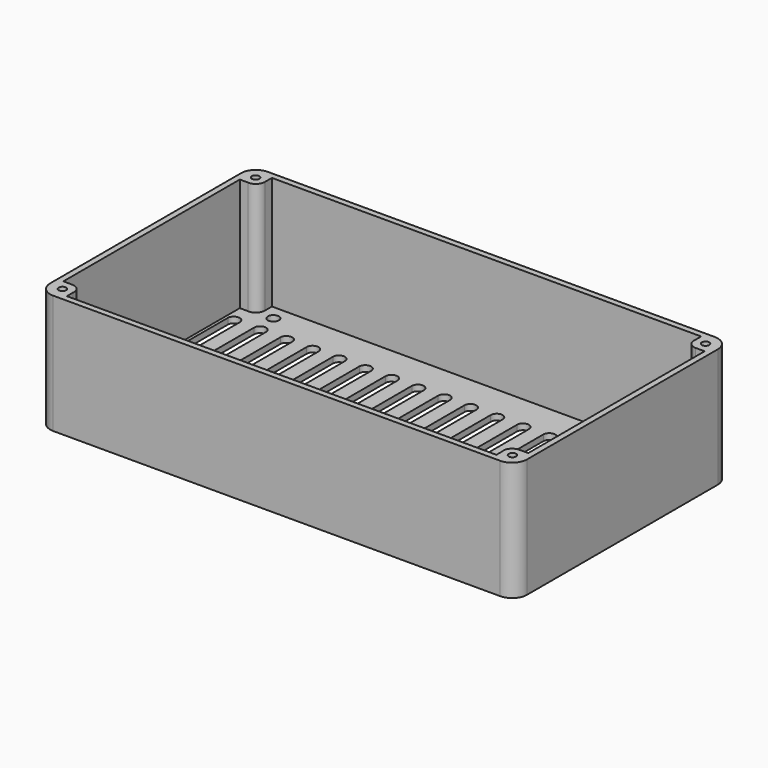
from build123d import *

# Parameters (mm, degrees)
SKETCH_R            = 1.85
PAD_DEPTH           = 20
POCKET_DEPTH        = 38
SKETCH002_R         = 1.25
POCKET001_DEPTH     = 40.001
POCKET002_DEPTH     = 2.001
LINEARPATTERN_COUNT = 18
LINEARPATTERN_PITCH = 8.823529


with BuildPart() as part:
    # Sketch → Pad (new body, symmetric)
    with BuildSketch(Plane.XY):
        with BuildLine():
            Line((-75, -45), (75, -45))
            ThreePointArc((75, -45), (78.535534, -43.535534), (80, -40))
            Line((80, -40), (80, 40))
            ThreePointArc((80, 40), (78.535534, 43.535534), (75, 45))
            Line((75, 45), (-75, 45))
            ThreePointArc((-75, 45), (-78.535534, 43.535534), (-80, 40))
            Line((-80, 40), (-80, -40))
            ThreePointArc((-80, -40), (-78.535534, -43.535534), (-75, -45))
        make_face()
        with Locations((-67.5, 38)):
            Circle(SKETCH_R, mode=Mode.SUBTRACT)
        with Locations((-67.5, -38)):
            Circle(SKETCH_R, mode=Mode.SUBTRACT)
        with Locations((67.5, -38)):
            Circle(SKETCH_R, mode=Mode.SUBTRACT)
        with Locations((67.5, 38)):
            Circle(SKETCH_R, mode=Mode.SUBTRACT)
    extrude(amount=PAD_DEPTH, both=True)

    # Sketch001 (on Face14 of Pad) → Pocket (cut)
    with BuildSketch(Plane.XY.offset(20)):
        with BuildLine():
            ThreePointArc((-75.321598, 37.017287), (-72.934115, 37.824657), (-72.004669, 40.167316))
            Line((-72.004669, 40.167316), (-72.004669, 42.9871))
            Line((-72.004669, 42.9871), (72.043009, 42.9871))
            Line((72.043009, 40.506168), (72.043009, 42.9871))
            ThreePointArc((72.043009, 40.506168), (72.706694, 38.065899), (75, 37))
            Line((75, 37), (77.999555, 37))
            Line((77.999555, 37), (77.999555, -37))
            Line((75, -37), (77.999555, -37))
            ThreePointArc((75, -37), (72.635946, -38.153043), (72.08913, -40.725834))
            Line((72.08913, -40.725834), (72.08913, -42.980436))
            Line((-72.039363, -42.980436), (72.08913, -42.980436))
            Line((-72.039363, -40.484385), (-72.039363, -42.980436))
            ThreePointArc((-72.039363, -40.484385), (-72.745361, -38.020959), (-75.09647, -37.001551))
            Line((-75.09647, -37.001551), (-78, -37.001551))
            Line((-78, -37.001551), (-78, 37.017287))
            Line((-75.321598, 37.017287), (-78, 37.017287))
        make_face()
    extrude(amount=-POCKET_DEPTH, mode=Mode.SUBTRACT)

    # Sketch002 (on Face5 of Pocket) → Pocket001 (cut, through all)
    with BuildSketch(Plane.XY.offset(20)):
        with Locations((-75.5, 40.5)):
            Circle(SKETCH002_R)
        with Locations((-75.5, -40.5)):
            Circle(SKETCH002_R)
        with Locations((75.5, 40.5)):
            Circle(SKETCH002_R)
        with Locations((75.5, -40.5)):
            Circle(SKETCH002_R)
    extrude(amount=-POCKET001_DEPTH, mode=Mode.SUBTRACT)

    # Sketch003 (on Face35 of Pocket001) → Pocket002 (cut, through all)
    with BuildSketch(Plane.XY.offset(-18)):
        with BuildLine():
            ThreePointArc((-73, 30.724177), (-75, 32.724177), (-77, 30.724177))
            Line((-77, 30.724177), (-77, 5.724177))
            ThreePointArc((-77, 5.724177), (-75, 3.724177), (-73, 5.724177))
            Line((-73, 30.724177), (-73, 5.724177))
        make_face()
        with BuildLine():
            ThreePointArc((-73, -5.724177), (-75, -3.724177), (-77, -5.724177))
            Line((-77, -5.724177), (-77, -30.724177))
            ThreePointArc((-77, -30.724177), (-75, -32.724177), (-73, -30.724177))
            Line((-73, -5.724177), (-73, -30.724177))
        make_face()
    pocket002 = extrude(amount=-POCKET002_DEPTH, mode=Mode.SUBTRACT)

    # LinearPattern: Pocket002 ×18
    with Locations(*[(i * LINEARPATTERN_PITCH, 0, 0) for i in range(1, LINEARPATTERN_COUNT)]):
        add(pocket002, mode=Mode.SUBTRACT)


solid = part.part
